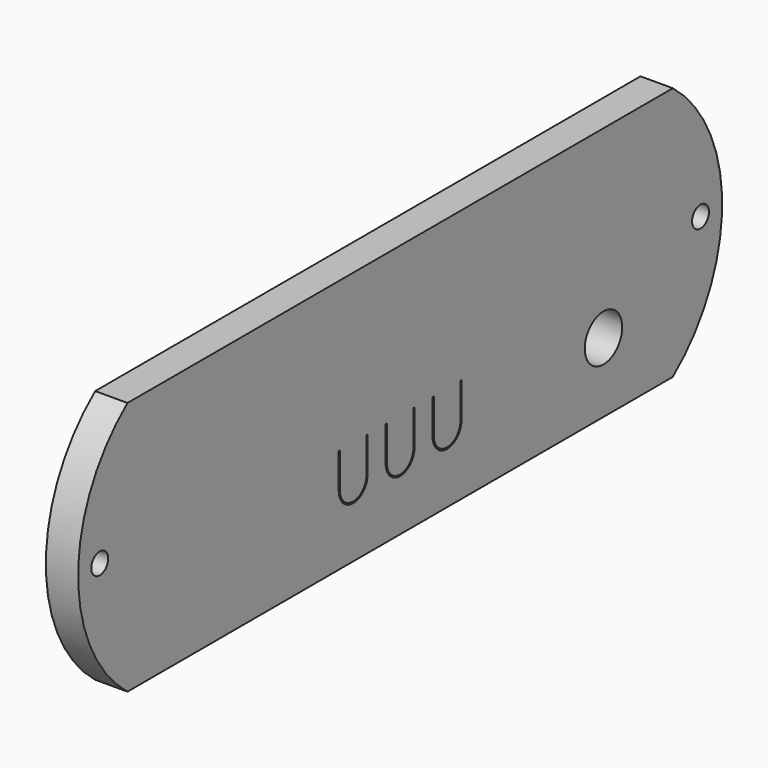
from build123d import *

# Parameters (mm, degrees)
F0_R     = 4.05
F0_R_2   = 1.8288
F1_DEPTH = 5.588
F3_DEPTH = 5.588


with BuildPart() as f1:
    # F0 (on Right) → F1 (new body)
    with BuildSketch(Plane.YZ):
        with BuildLine():
            ThreePointArc((59, -22), (69.679492, 0), (59, 22))
            Line((59, 22), (-59, 22))
            ThreePointArc((-59, 22), (-69.679492, 0), (-59, -22))
            Line((-59, -22), (59, -22))
        make_face()
        with Locations((44, -9.95)):
            Circle(F0_R, mode=Mode.SUBTRACT)
        with Locations((-65, 0)):
            Circle(F0_R_2, mode=Mode.SUBTRACT)
        with Locations((65, 0)):
            Circle(F0_R_2, mode=Mode.SUBTRACT)
    extrude(amount=F1_DEPTH)

    # F2 (on face) → F3 (cut, through all)
    with BuildSketch(Plane.YZ.offset(5.588)):
        with BuildLine():
            ThreePointArc((7.287, -4), (7.16, -3.873), (7.033, -4))
            Line((7.033, -4), (7.033, -10))
            ThreePointArc((7.033, -10), (10.16, -13.127), (13.287, -10))
            Line((13.287, -10), (13.287, -4))
            ThreePointArc((13.287, -4), (13.16, -3.873), (13.033, -4))
            Line((13.033, -4), (13.033, -10))
            ThreePointArc((13.033, -10), (10.16, -12.873), (7.287, -10))
            Line((7.287, -10), (7.287, -4))
        make_face()
        with BuildLine():
            ThreePointArc((2.873, -10), (0, -12.873), (-2.873, -10))
            Line((-2.873, -10), (-2.873, -4))
            ThreePointArc((-2.873, -4), (-3, -3.873), (-3.127, -4))
            Line((-3.127, -4), (-3.127, -10))
            ThreePointArc((-3.127, -10), (0, -13.127), (3.127, -10))
            Line((3.127, -10), (3.127, -4))
            ThreePointArc((3.127, -4), (3, -3.873), (2.873, -4))
            Line((2.873, -4), (2.873, -10))
        make_face()
        with BuildLine():
            ThreePointArc((-7.287, -10), (-10.16, -12.873), (-13.033, -10))
            Line((-13.033, -10), (-13.033, -4))
            ThreePointArc((-13.033, -4), (-13.16, -3.873), (-13.287, -4))
            Line((-13.287, -4), (-13.287, -10))
            ThreePointArc((-13.287, -10), (-10.16, -13.127), (-7.033, -10))
            Line((-7.033, -10), (-7.033, -4))
            ThreePointArc((-7.033, -4), (-7.16, -3.873), (-7.287, -4))
            Line((-7.287, -4), (-7.287, -10))
        make_face()
    extrude(amount=-F3_DEPTH, mode=Mode.SUBTRACT)


solid = f1.part
